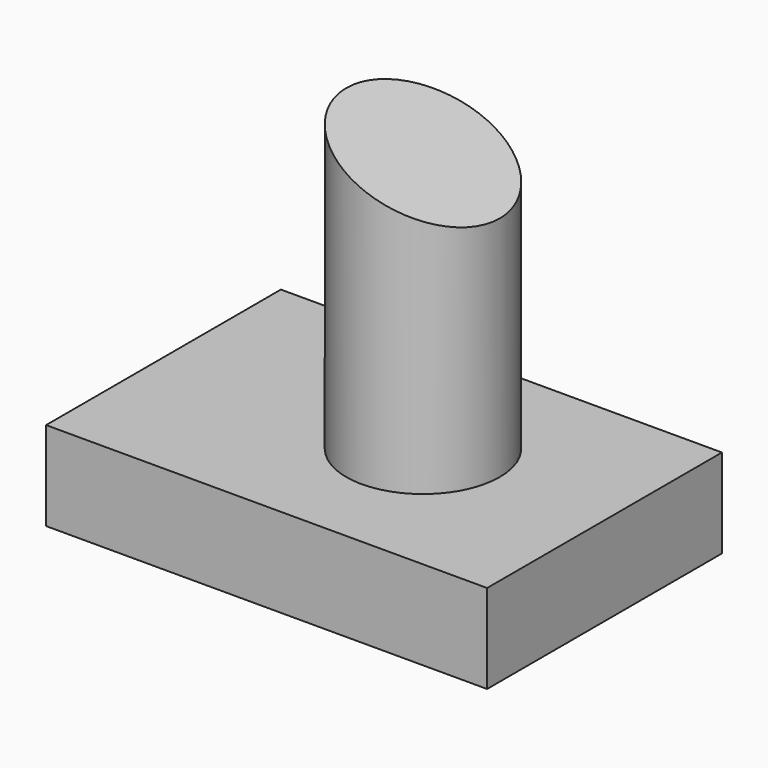
from build123d import *

# Parameters (mm, degrees)
F0_W     = 202.830822
F0_H     = 134.983119
F1_DEPTH = 40.894
F2_R     = 35.284154
F3_DEPTH = 134.62
F5_DEPTH = 96.012


with BuildPart() as f1:
    # F0 (on Top) → F1 (new body)
    with BuildSketch(Plane.XY):
        with Locations((-54.840356, -12.115913)):
            Rectangle(F0_W, F0_H)
    extrude(amount=F1_DEPTH)

    # F2 (on face) → F3 (join)
    with BuildSketch(Plane.XY.offset(40.894)):
        with Locations((-39.066195, -9.414996)):
            Circle(F2_R)
    extrude(amount=F3_DEPTH)

    # F4 (on Front) → F5 (cut, symmetric)
    with BuildSketch(Plane.XZ):
        Polygon((38.168721, 193.453133), (-104.439028, 188.224182), (38.168721, 127.853572), align=None)
    extrude(amount=F5_DEPTH, both=True, mode=Mode.SUBTRACT)


solid = f1.part
